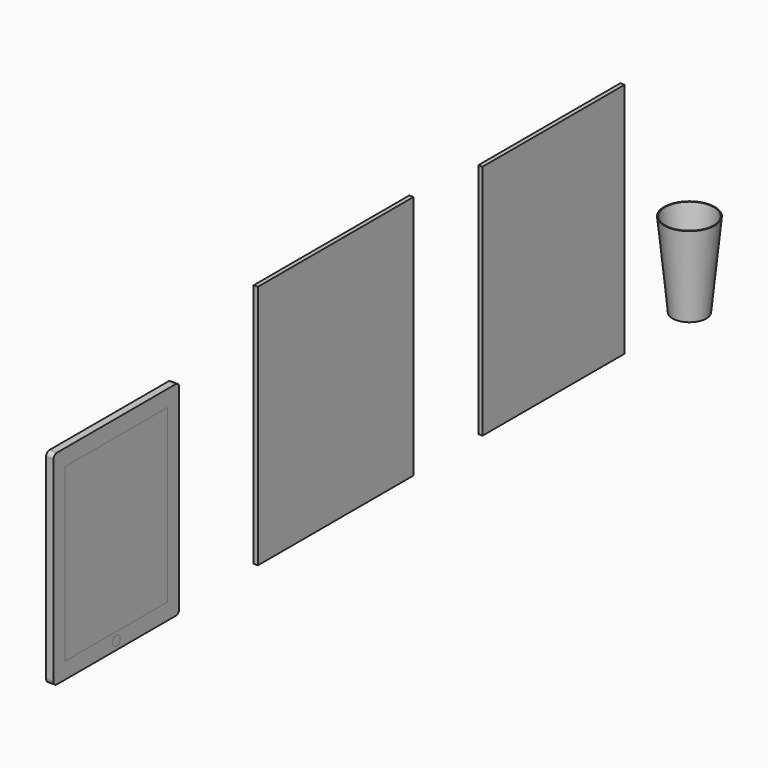
from build123d import *

# Parameters (mm, degrees)
F0_W     = 185.7
F0_H     = 241.2
F1_DEPTH = 8.8
F2_R     = 5
F3_W     = 151.3151817799
F3_H     = 202.5515388392
F4_DEPTH = 2
F3_R     = 5.6545276432
F0_W_2   = 230
F0_H_2   = 290
F6_DEPTH = 5
F0_W_3   = 210
F0_H_3   = 280
F8_T     = -1


with BuildPart() as f1:
    # F0 (on Right) → F1 (new body)
    with BuildSketch(Plane.YZ):
        with Locations((-92.85, 120.6)):
            Rectangle(F0_W, F0_H)
    extrude(amount=F1_DEPTH)

    # F2
    f2_edges = [f1.edges().sort_by_distance(p)[0] for p in [
        (4.4, -185.7, 241.2),
        (4.4, 0, 241.2),
        (4.4, -185.7, 0),
        (4.4, 0, 0),
    ]]
    fillet(f2_edges, radius=F2_R)


with BuildPart() as f4:
    # F3 (on face) → F4 (new body)
    with BuildSketch(Plane.YZ.offset(8.8)):
        with Locations((-92.85, 120.6)):
            Rectangle(F3_W, F3_H)
    extrude(amount=-F4_DEPTH)


with BuildPart() as f4b:
    # F3 (on face) → F4, piece 2 (new body)
    with BuildSketch(Plane.YZ.offset(8.8)):
        with Locations((-92.85, 9.8767345771)):
            Circle(F3_R)
    extrude(amount=-F4_DEPTH)


with BuildPart() as f1_1:
    add(f1.part)

    # F5: cut F4, F4b
    add(f4.part, mode=Mode.SUBTRACT)
    add(f4b.part, mode=Mode.SUBTRACT)


with BuildPart() as f6:
    # F0 (on Right) → F6 (new body)
    with BuildSketch(Plane.YZ):
        with Locations((236.1263760924, 145)):
            Rectangle(F0_W_2, F0_H_2)
    extrude(amount=F6_DEPTH)


with BuildPart() as f6b:
    # F0 (on Right) → F6, piece 2 (new body)
    with BuildSketch(Plane.YZ):
        with Locations((558.1211555004, 140)):
            Rectangle(F0_W_3, F0_H_3)
    extrude(amount=F6_DEPTH)


with BuildPart() as f7:
    # F0 (on Right) → F7 (revolve)
    with BuildSketch(Plane.YZ):
        Polygon((745.2529549599, 0), (765.2529549599, 0), (765.2529549599, 100), (735.2529549599, 100), align=None)
    revolve(axis=Axis((0, 765.2529549599, 50), (0, 0, 1)))

    # F8
    f8_openings = [f7.faces().sort_by_distance(p)[0] for p in [
        (0, 765.252955, 100),
    ]]
    offset(amount=F8_T, openings=f8_openings)


solid = Compound([f4.part, f4b.part, f1_1.part, f6.part, f6b.part, f7.part])
